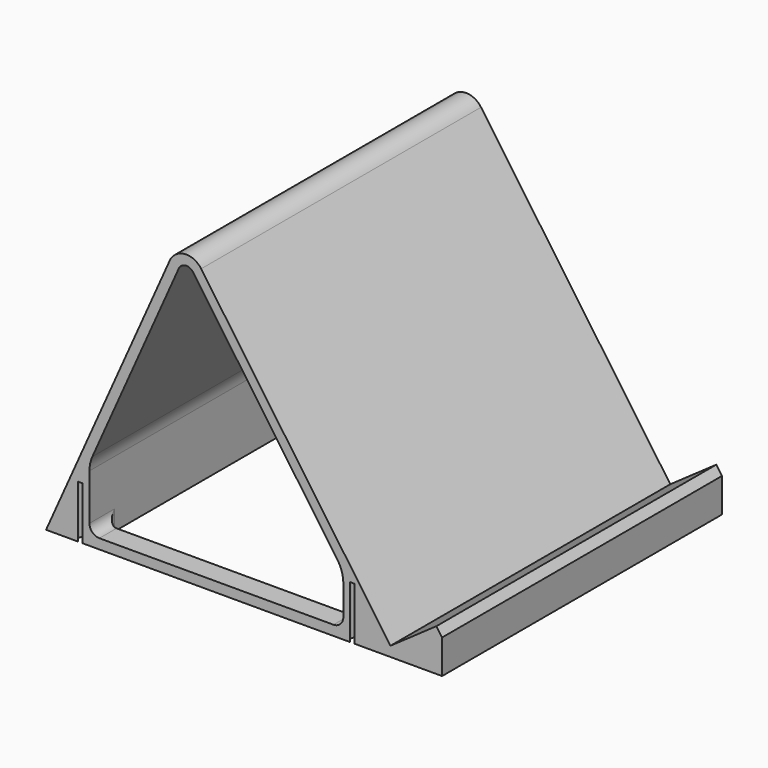
from build123d import *

# Parameters (mm, degrees)
PAD_DEPTH       = 53
SKETCH001_R     = 1.65
POCKET_DEPTH    = 15
SKETCH002_R     = 1.65
POCKET001_DEPTH = 16
SKETCH003_R     = 4.5
POCKET002_DEPTH = 0.4
FILLET_R        = 3
POCKET003_DEPTH = 6


with BuildPart() as part:
    # Sketch → Pad (new body, symmetric)
    with BuildSketch(Plane.XZ):
        with BuildLine():
            ThreePointArc((-15.795942, 84.915204), (-20.82658, 87.235391), (-25.324265, 84.000982))
            Line((-25.324265, 84.000982), (-62.791985, 0))
            Line((57.208015, 0), (-62.791985, 0))
            Line((57.208015, 10.293343), (57.208015, 0))
            Line((57.208015, 10.293343), (55.487286, 12.750799))
            Line((41.561701, 3), (55.487286, 12.750799))
            Line((-15.795942, 84.915204), (41.561701, 3))
        make_face()
        with BuildLine():
            Line((-48.769346, 24.073542), (-22.584454, 82.77892))
            ThreePointArc((-18.253399, 83.194475), (-20.540052, 84.249105), (-22.584454, 82.77892))
            Line((-18.253399, 83.194475), (25.480661, 20.735764))
            ThreePointArc((27.289141, 15), (26.826311, 18.007058), (25.480661, 20.735764))
            Line((27.289141, 15), (27.289141, 3))
            Line((-49.636644, 3), (27.289141, 3))
            Line((-49.636644, 20), (-49.636644, 3))
            ThreePointArc((-48.769346, 24.073542), (-49.417416, 22.082423), (-49.636644, 20))
        make_face(mode=Mode.SUBTRACT)
    extrude(amount=PAD_DEPTH, both=True)

    # Sketch001 (on Face3 of Pad) → Pocket (cut, symmetric)
    with BuildSketch(Plane(origin=(29.297859, 0, 20.514582), x_dir=(-0.573576, 0, 0.819152), z_dir=(0.819152, 0, 0.573576))):
        with Locations((-23.881356, -47)):
            Circle(SKETCH001_R)
        with Locations((-23.881356, 47)):
            Circle(SKETCH001_R)
    extrude(amount=POCKET_DEPTH, both=True, mode=Mode.SUBTRACT)

    # Sketch002 (on Face6 of Pocket) → Pocket001 (cut)
    with BuildSketch(Plane(origin=(0, 0, 0), x_dir=(1, 0, 0), z_dir=(0, 0, -1))):
        with Locations((-52.5, 51.5)):
            Circle(SKETCH002_R)
        with Locations((30, 51.5)):
            Circle(SKETCH002_R)
        with Locations((30, -51.5)):
            Circle(SKETCH002_R)
        with Locations((-52.5, -51.5)):
            Circle(SKETCH002_R)
    extrude(amount=-POCKET001_DEPTH, mode=Mode.SUBTRACT)

    # Sketch003 → Pocket002 (cut)
    with BuildSketch(Plane(origin=(0, 0, 0), x_dir=(-1, 0, 0), z_dir=(0, 0, -1))):
        with Locations((-50, 46)):
            Circle(SKETCH003_R)
        with Locations((56, 46)):
            Circle(SKETCH003_R)
        with Locations((-50, -46)):
            Circle(SKETCH003_R)
        with Locations((56, -46)):
            Circle(SKETCH003_R)
    extrude(amount=-POCKET002_DEPTH, mode=Mode.SUBTRACT)

    # Fillet
    fillet_edges = [part.edges().sort_by_distance(p)[0] for p in [
        (27.289141, 0, 3),
        (-49.636644, 0, 3),
    ]]
    fillet(fillet_edges, radius=FILLET_R)

    # Sketch004 (on Face5 of Fillet) → Pocket003 (cut, symmetric)
    with BuildSketch(Plane(origin=(0, 0, 3), x_dir=(-1, 0, 0), z_dir=(0, 0, 1))):
        with BuildLine():
            Line((-24.289141, 46.5), (46.636644, 46.5))
            ThreePointArc((49.636644, 43.5), (48.757964, 45.62132), (46.636644, 46.5))
            Line((49.636644, 43.5), (49.636644, -43.5))
            ThreePointArc((46.636644, -46.5), (48.757964, -45.62132), (49.636644, -43.5))
            Line((46.636644, -46.5), (-24.289141, -46.5))
            ThreePointArc((-27.289141, -43.5), (-26.410461, -45.62132), (-24.289141, -46.5))
            Line((-27.289141, -43.5), (-27.289141, 43.5))
            ThreePointArc((-24.289141, 46.5), (-26.410461, 45.62132), (-27.289141, 43.5))
        make_face()
    extrude(amount=POCKET003_DEPTH, both=True, mode=Mode.SUBTRACT)


solid = part.part
